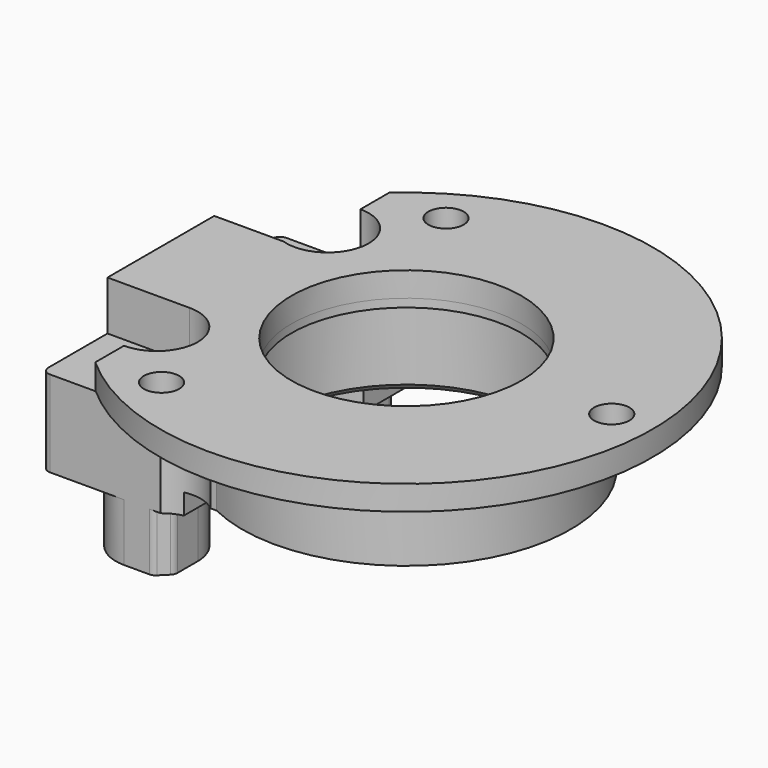
from build123d import *

# Parameters (mm, degrees)
SKETCH_R        = 20
SKETCH_R_2      = 16
PAD_DEPTH       = 11
SKETCH001_R     = 30
PAD001_DEPTH    = 3
SKETCH002_R     = 16
SKETCH002_R_2   = 14
PAD002_DEPTH    = 1
SKETCH003_R     = 14
POCKET_DEPTH    = 3.001
SKETCH004_R     = 16
PAD003_DEPTH    = 14
PAD004_DEPTH    = 2.5
SKETCH007_R     = 2.15
SKETCH007_R_2   = 2.65
POCKET001_DEPTH = 23.501
SKETCH008_R     = 2.15
POCKET002_DEPTH = 3.001
SKETCH009_R     = 4.75
POCKET003_DEPTH = 13.501
PAD005_DEPTH    = 7
SKETCH011_R     = 2.15
SKETCH011_R_2   = 2.65
POCKET004_DEPTH = 23.501
FILLET_R        = 1
CHAMFER_SIZE    = 0.7
FILLET001_R     = 1
POCKET005_DEPTH = 6


with BuildPart() as part:
    # Sketch → Pad (new body)
    with BuildSketch(Plane.XY):
        Circle(SKETCH_R)
        Circle(SKETCH_R_2, mode=Mode.SUBTRACT)
    extrude(amount=PAD_DEPTH)

    # Sketch001 (on Face4 of Pad) → Pad001 (join)
    with BuildSketch(Plane.XY.offset(11)):
        Circle(SKETCH001_R)
    extrude(amount=PAD001_DEPTH)

    # Sketch002 (on Face7 of Pad001) → Pad002 (join)
    with BuildSketch(Plane(origin=(0, 0, 11), x_dir=(1, 0, 0), z_dir=(0, 0, -1))):
        Circle(SKETCH002_R)
        Circle(SKETCH002_R_2, mode=Mode.SUBTRACT)
    extrude(amount=PAD002_DEPTH)

    # Sketch003 (on Face9 of Pad002) → Pocket (cut, through all)
    with BuildSketch(Plane(origin=(0, 0, 11), x_dir=(1, 0, 0), z_dir=(0, 0, -1))):
        Circle(SKETCH003_R)
    extrude(amount=-POCKET_DEPTH, mode=Mode.SUBTRACT)

    # Sketch004 (on Face6 of Pocket) → Pad003 (join)
    with BuildSketch(Plane(origin=(0, 0, 0), x_dir=(1, 0, 0), z_dir=(0, 0, -1))):
        with BuildLine():
            ThreePointArc((-8.717798, -18), (20, 0), (-8.717798, 18))
            Line((-30, 18), (-8.717798, 18))
            Line((-30, -18), (-30, 18))
            Line((-8.717798, -18), (-30, -18))
        make_face()
        Circle(SKETCH004_R, mode=Mode.SUBTRACT)
    extrude(amount=-PAD003_DEPTH)

    # Sketch005 (on Face9 of Pad003) → Pad004 (join)
    with BuildSketch(Plane(origin=(0, 0, 0), x_dir=(1, 0, 0), z_dir=(0, 0, -1))):
        with BuildLine():
            Line((-30, 18), (-13.5, 18))
            Line((-13.5, 18), (-13.5, 10.331989))
            ThreePointArc((-13.5, 10.331989), (-17, 0), (-13.5, -10.331989))
            Line((-13.5, -10.331989), (-13.5, -18))
            Line((-13.5, -18), (-30, -18))
            Line((-30, -18), (-30, 18))
        make_face()
    extrude(amount=PAD004_DEPTH)

    # Sketch007 → Pocket001 (cut, through all)
    with BuildSketch(Plane(origin=(0, 0, -9.5), x_dir=(1, 0, 0), z_dir=(0, 0, -1))):
        with Locations((-20, 13)):
            Circle(SKETCH007_R)
        with Locations((-20, -13)):
            Circle(SKETCH007_R_2)
    extrude(amount=-POCKET001_DEPTH, mode=Mode.SUBTRACT)

    # Sketch008 (on Face2 of Pocket001) → Pocket002 (cut, through all)
    with BuildSketch(Plane(origin=(0, 0, 11), x_dir=(1, 0, 0), z_dir=(0, 0, -1))):
        with Locations((25, 0)):
            Circle(SKETCH008_R)
        with Locations((-12.5, 21.650635)):
            Circle(SKETCH008_R)
        with Locations((-12.5, -21.650635)):
            Circle(SKETCH008_R)
    extrude(amount=-POCKET002_DEPTH, mode=Mode.SUBTRACT)

    # Sketch009 (on Face2 of Pocket002) → Pocket003 (cut, through all)
    with BuildSketch(Plane(origin=(0, 0, 11), x_dir=(1, 0, 0), z_dir=(0, 0, -1))):
        with Locations((-12.5, -21.650635)):
            Circle(SKETCH009_R)
        with Locations((-12.5, 21.650635)):
            Circle(SKETCH009_R)
    extrude(amount=POCKET003_DEPTH, mode=Mode.SUBTRACT)

    # Sketch010 (on Face30 of Pocket003) → Pad005 (join)
    with BuildSketch(Plane(origin=(0, 0, -2.5), x_dir=(1, 0, 0), z_dir=(0, 0, -1))):
        with BuildLine():
            ThreePointArc((-15, -13), (-23.605937, -9.536299), (-19.798889, -17.995954))
            Line((-19.798889, -17.995954), (-16.5, -17.995954))
            Line((-16.5, -17.995954), (-15, -16.495954))
            Line((-15, -13), (-15, -16.495954))
        make_face()
        with BuildLine():
            ThreePointArc((-20, 18), (-23.535534, 9.464466), (-15, 13))
            Line((-15, 13), (-15, 16.5))
            Line((-16.5, 18), (-15, 16.5))
            Line((-20, 18), (-16.5, 18))
        make_face()
    extrude(amount=PAD005_DEPTH)

    # Sketch011 (on Face49 of Pad005) → Pocket004 (cut, through all)
    with BuildSketch(Plane(origin=(0, 0, -9.5), x_dir=(1, 0, 0), z_dir=(0, 0, -1))):
        with Locations((-20, 13)):
            Circle(SKETCH011_R)
        with Locations((-20, -13)):
            Circle(SKETCH011_R_2)
    extrude(amount=-POCKET004_DEPTH, mode=Mode.SUBTRACT)

    # Fillet
    fillet_edges = [part.edges().sort_by_distance(p)[0] for p in [
        (-16.5, 17.995954, -6),
        (-15, 16.495954, -6),
        (-15, -16.5, -6),
        (-16.5, -18, -6),
    ]]
    fillet(fillet_edges, radius=FILLET_R)

    # Chamfer
    chamfer_edges = [part.edges().sort_by_distance(p)[0] for p in [
        (-16, 0, 0),
    ]]
    chamfer(chamfer_edges, length=CHAMFER_SIZE)

    # Fillet001
    fillet001_edges = [part.edges().sort_by_distance(p)[0] for p in [
        (-30, 18, 7),
        (-30, 18, -1.25),
        (-30, -18, -1.25),
        (-30, -18, 7),
    ]]
    fillet(fillet001_edges, radius=FILLET001_R)

    # Sketch012 (on Face50 of Fillet001) → Pocket005 (cut)
    with BuildSketch(Plane.XY.offset(14)):
        with BuildLine():
            ThreePointArc((-21.553244, 8.247376), (-15.062485, 12.212001), (-19.996782, 17.999999))
            Line((-19.996782, 17.999999), (-19.996782, 34.276657))
            Line((-19.996782, 34.276657), (-36.551773, 8.247376))
            Line((-21.553244, 8.247376), (-36.551773, 8.247376))
        make_face()
        with BuildLine():
            ThreePointArc((-20, -18), (-15, -13), (-20, -8))
            Line((-20, -8), (-40.401188, -8))
            Line((-20, -33.121502), (-40.401188, -8))
            Line((-20, -18), (-20, -33.121502))
        make_face()
    extrude(amount=-POCKET005_DEPTH, mode=Mode.SUBTRACT)


solid = part.part
